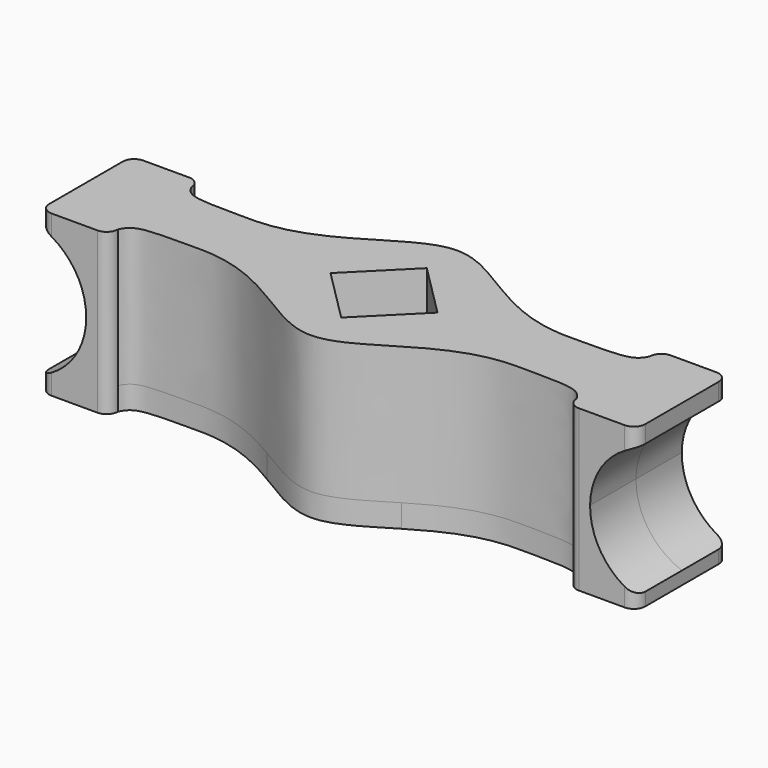
from build123d import *

# Parameters (mm, degrees)
F0_W     = 3.1265006005
F0_H     = 1.4
F1_DEPTH = 1
F3_DEPTH = 6
F4_R     = 3.01
F5_DEPTH = 2.5


with BuildPart() as f1:
    # F0 (on Top) → F1 (new body)
    with BuildSketch(Plane.XY):
        with BuildLine():
            Line((-10, 0), (-10, 1.4))
            Line((-10, 1.4), (-10, 2))
            ThreePointArc((-10, 2), (-10.1464466094, 2.3535533906), (-10.5, 2.5))
            Line((-10.5, 2.5), (-12.5, 2.5))
            ThreePointArc((-12.5, 2.5), (-12.8535533906, 2.3535533906), (-13, 2))
            Line((-13, 2), (-13, -2))
            ThreePointArc((-13, -2), (-12.8535533906, -2.3535533906), (-12.5, -2.5))
            Line((-12.5, -2.5), (-10.5, -2.5))
            ThreePointArc((-10.5, -2.5), (-10.1464466094, -2.3535533906), (-10, -2))
            Line((-10, -2), (-10, -1.4))
            Line((-10, -1.4), (-10, 0))
        make_face()
        with BuildLine():
            Line((-10, 1.4), (-6.8734993995, 1.4))
            add(Edge.make_bspline(
                [(-10, 2), (-9.7042871639, 1.4), (-9.3402471393, 1.4), (-6.8734993995, 1.4)],
                knots=[0, 0, 0, 0, 3.183552419, 3.183552419, 3.183552419, 3.183552419], degree=3))
            Line((-10, 2), (-10, 1.4))
        make_face()
        with BuildLine():
            add(Edge.make_bspline(
                [(-10, -2), (-9.7042871639, -1.4), (-9.3402471393, -1.4), (-6.8734993995, -1.4)],
                knots=[0, 0, 0, 0, 3.183552419, 3.183552419, 3.183552419, 3.183552419], degree=3))
            Line((-6.8734993995, -1.4), (-10, -1.4))
            Line((-10, -1.4), (-10, -2))
        make_face()
        with Locations((-8.4367496998, 0.7)):
            Rectangle(F0_W, F0_H)
        with Locations((-8.4367496998, -0.7)):
            Rectangle(F0_W, F0_H)
        with BuildLine():
            Line((-6.8734993995, 0), (-4, 0))
            ThreePointArc((-4, 0), (-3.9362415574, 0.7113384581), (-3.746998799, 1.4))
            Line((-3.746998799, 1.4), (-6.8734993995, 1.4))
            Line((-6.8734993995, 1.4), (-6.8734993995, 0))
        make_face()
        with BuildLine():
            ThreePointArc((-3.746998799, -1.4), (-3.9362415574, -0.7113384581), (-4, 0))
            Line((-4, 0), (-6.8734993995, 0))
            Line((-6.8734993995, 0), (-6.8734993995, -1.4))
            Line((-6.8734993995, -1.4), (-3.746998799, -1.4))
        make_face()
        with BuildLine():
            ThreePointArc((-3.746998799, 1.4), (-3.4043040955, 2.1001699039), (-2.9323144428, 2.7205756759))
            add(Edge.make_bspline(
                [(-6.8734993995, 1.4), (-5.2937536503, 1.4), (-4.0339039274, 2.0637900008), (-2.9323144428, 2.7205756759)],
                knots=[0, 0, 0, 0, 0.2526380051, 0.2526380051, 0.2526380051, 0.2526380051], degree=3))
            Line((-6.8734993995, 1.4), (-3.746998799, 1.4))
        make_face()
        with BuildLine():
            add(Edge.make_bspline(
                [(-6.8734993995, -1.4), (-5.2937536503, -1.4), (-4.0339039274, -2.0637900008), (-2.9323144428, -2.7205756759)],
                knots=[0, 0, 0, 0, 0.2526380051, 0.2526380051, 0.2526380051, 0.2526380051], degree=3))
            ThreePointArc((-2.9323144428, -2.7205756759), (-3.4043040955, -2.1001699039), (-3.746998799, -1.4))
            Line((-3.746998799, -1.4), (-6.8734993995, -1.4))
        make_face()
        with BuildLine():
            add(Edge.make_bspline(
                [(6.8734993995, 1.4), (9.3471100554, 1.4), (9.71115008, 1.4), (10, 2)],
                knots=[0, 0, 0, 0, 3.183552419, 3.183552419, 3.183552419, 3.183552419], degree=3))
            Line((6.8734993995, 1.4), (10, 1.4))
            Line((10, 1.4), (10, 2))
        make_face()
        with BuildLine():
            Line((10, -1.4), (6.8734993995, -1.4))
            add(Edge.make_bspline(
                [(6.8734993995, -1.4), (9.3066617846, -1.4), (9.6707018092, -1.4), (10, -2)],
                knots=[0, 0, 0, 0, 3.183552419, 3.183552419, 3.183552419, 3.183552419], degree=3))
            Line((10, -2), (10, -1.4))
        make_face()
        with Locations((8.4367496998, 0.7)):
            Rectangle(F0_W, F0_H)
        with Locations((8.4367496998, -0.7)):
            Rectangle(F0_W, F0_H)
        with BuildLine():
            ThreePointArc((3.746998799, 1.4), (3.9362415574, 0.7113384581), (4, 0))
            Line((4, 0), (6.8734993995, 0))
            Line((6.8734993995, 0), (6.8734993995, 1.4))
            Line((6.8734993995, 1.4), (3.746998799, 1.4))
        make_face()
        with BuildLine():
            Line((6.8734993995, 0), (4, 0))
            ThreePointArc((4, 0), (3.9362415574, -0.7113384581), (3.746998799, -1.4))
            Line((3.746998799, -1.4), (6.8734993995, -1.4))
            Line((6.8734993995, -1.4), (6.8734993995, 0))
        make_face()
        with BuildLine():
            ThreePointArc((2.9323144428, 2.7205756759), (3.4043040955, 2.1001699039), (3.746998799, 1.4))
            Line((3.746998799, 1.4), (6.8734993995, 1.4))
            add(Edge.make_bspline(
                [(2.9323144428, 2.7205756759), (4.0339039274, 2.0637900008), (5.2937536503, 1.4), (6.8734993995, 1.4)],
                knots=[0.7473619949, 0.7473619949, 0.7473619949, 0.7473619949, 1, 1, 1, 1], degree=3))
        make_face()
        with BuildLine():
            Line((6.8734993995, -1.4), (3.746998799, -1.4))
            ThreePointArc((3.746998799, -1.4), (3.4043040955, -2.1001699039), (2.9323144428, -2.7205756759))
            add(Edge.make_bspline(
                [(2.9323144428, -2.7205756759), (4.0339039274, -2.0637900008), (5.2937536503, -1.4), (6.8734993995, -1.4)],
                knots=[0.7473619949, 0.7473619949, 0.7473619949, 0.7473619949, 1, 1, 1, 1], degree=3))
        make_face()
        with BuildLine():
            Line((2.3335, 0), (4, 0))
            ThreePointArc((4, 0), (3.9362415574, 0.7113384581), (3.746998799, 1.4))
            ThreePointArc((3.746998799, 1.4), (3.4043040955, 2.1001699039), (2.9323144428, 2.7205756759))
            add(Edge.make_bspline(
                [(0, 4), (0.9268650979, 4), (1.8537301958, 3.3636452521), (2.9323144428, 2.7205756759)],
                knots=[0.5, 0.5, 0.5, 0.5, 0.7473619949, 0.7473619949, 0.7473619949, 0.7473619949], degree=3))
            add(Edge.make_bspline(
                [(-2.9323144428, 2.7205756759), (-1.8537301958, 3.3636452521), (-0.9268650979, 4), (0, 4)],
                knots=[0.2526380051, 0.2526380051, 0.2526380051, 0.2526380051, 0.5, 0.5, 0.5, 0.5], degree=3))
            ThreePointArc((-2.9323144428, 2.7205756759), (-3.4043040955, 2.1001699039), (-3.746998799, 1.4))
            ThreePointArc((-3.746998799, 1.4), (-3.9362415574, 0.7113384581), (-4, 0))
            Line((-4, 0), (-2.3335, 0))
            Line((-2.3335, 0), (0, 2.3335))
            Line((0, 2.3335), (2.3335, 0))
        make_face()
        with BuildLine():
            ThreePointArc((3.746998799, -1.4), (3.9362415574, -0.7113384581), (4, 0))
            Line((4, 0), (2.3335, 0))
            Line((2.3335, 0), (0, -2.3335))
            Line((0, -2.3335), (-2.3335, 0))
            Line((-2.3335, 0), (-4, 0))
            ThreePointArc((-4, 0), (-3.9362415574, -0.7113384581), (-3.746998799, -1.4))
            ThreePointArc((-3.746998799, -1.4), (-3.4043040955, -2.1001699039), (-2.9323144428, -2.7205756759))
            add(Edge.make_bspline(
                [(-2.9323144428, -2.7205756759), (-1.8537301958, -3.3636452521), (-0.9268650979, -4), (0, -4)],
                knots=[0.2526380051, 0.2526380051, 0.2526380051, 0.2526380051, 0.5, 0.5, 0.5, 0.5], degree=3))
            add(Edge.make_bspline(
                [(0, -4), (0.9268650979, -4), (1.8537301958, -3.3636452521), (2.9323144428, -2.7205756759)],
                knots=[0.5, 0.5, 0.5, 0.5, 0.7473619949, 0.7473619949, 0.7473619949, 0.7473619949], degree=3))
            ThreePointArc((2.9323144428, -2.7205756759), (3.4043040955, -2.1001699039), (3.746998799, -1.4))
        make_face()
        Polygon((0, -2.3335), (2.3335, 0), (0, 0), (-2.3335, 0), align=None)
        Polygon((0, 0), (2.3335, 0), (0, 2.3335), (-2.3335, 0), align=None)
        with BuildLine():
            Line((10, 1.4), (10, 0))
            Line((10, 0), (10, -1.4))
            Line((10, -1.4), (10, -2))
            ThreePointArc((10, -2), (10.1464466094, -2.3535533906), (10.5, -2.5))
            Line((10.5, -2.5), (12.5, -2.5))
            ThreePointArc((12.5, -2.5), (12.8535533906, -2.3535533906), (13, -2))
            Line((13, -2), (13, 2))
            ThreePointArc((13, 2), (12.8535533906, 2.3535533906), (12.5, 2.5))
            Line((12.5, 2.5), (10.5, 2.5))
            ThreePointArc((10.5, 2.5), (10.1464466094, 2.3535533906), (10, 2))
            Line((10, 2), (10, 1.4))
        make_face()
    extrude(amount=F1_DEPTH)

    # F2 (on face) → F3 (join)
    with BuildSketch(Plane.XY.offset(1)):
        with BuildLine():
            ThreePointArc((-13, -2), (-12.8535533906, -2.3535533906), (-12.5, -2.5))
            Line((-12.5, -2.5), (-10.5, -2.5))
            ThreePointArc((-10.5, -2.5), (-10.1464466094, -2.3535533906), (-10, -2))
            add(Edge.make_bspline(
                [(-10, -2), (-9.7042871639, -1.4), (-9.3402471393, -1.4), (-3.746998799, -1.4), (0, -6.6), (3.746998799, -1.4), (9.3066617846, -1.4), (9.6707018092, -1.4), (10, -2)],
                knots=[0, 0, 0, 0, 3.183552419, 3.183552419, 7.2185732642, 11.2535941093, 11.2535941093, 14.3938017082, 14.3938017082, 14.3938017082, 14.3938017082], degree=3))
            ThreePointArc((10, -2), (10.1464466094, -2.3535533906), (10.5, -2.5))
            Line((10.5, -2.5), (12.5, -2.5))
            ThreePointArc((12.5, -2.5), (12.8535533906, -2.3535533906), (13, -2))
            Line((13, -2), (13, 2))
            ThreePointArc((13, 2), (12.8535533906, 2.3535533906), (12.5, 2.5))
            Line((12.5, 2.5), (10.5, 2.5))
            ThreePointArc((10.5, 2.5), (10.1464466094, 2.3535533906), (10, 2))
            add(Edge.make_bspline(
                [(10, 2), (9.71115008, 1.4), (9.3471100554, 1.4), (3.746998799, 1.4), (0, 6.6), (-3.746998799, 1.4), (-9.3402471393, 1.4), (-9.7042871639, 1.4), (-10, 2)],
                knots=[0, 0, 0, 0, 3.183552419, 3.183552419, 7.2073782892, 11.2312041594, 11.2312041594, 14.4059239624, 14.4059239624, 14.4059239624, 14.4059239624], degree=3))
            ThreePointArc((-10, 2), (-10.1464466094, 2.3535533906), (-10.5, 2.5))
            Line((-10.5, 2.5), (-12.5, 2.5))
            ThreePointArc((-12.5, 2.5), (-12.8535533906, 2.3535533906), (-13, 2))
            Line((-13, 2), (-13, -2))
        make_face()
        Polygon((0, -2.3335), (-2.3335, 0), (0, 2.3335), (2.3335, 0), align=None, mode=Mode.SUBTRACT)
    extrude(amount=F3_DEPTH)

    # F4 (on Front) → F5 (cut, symmetric)
    with BuildSketch(Plane.XZ):
        with Locations((-14, 3.5)):
            Circle(F4_R)
        with BuildLine():
            ThreePointArc((17.0096906611, 3.4069333901), (14.0096953769, 6.4169167631), (10.989757169, 3.4269427112))
            ThreePointArc((10.989757169, 3.4269427112), (13.9896859453, 0.3969500171), (17.0096906611, 3.4069333901))
        make_face()
    extrude(amount=F5_DEPTH, both=True, mode=Mode.SUBTRACT)


solid = f1.part
